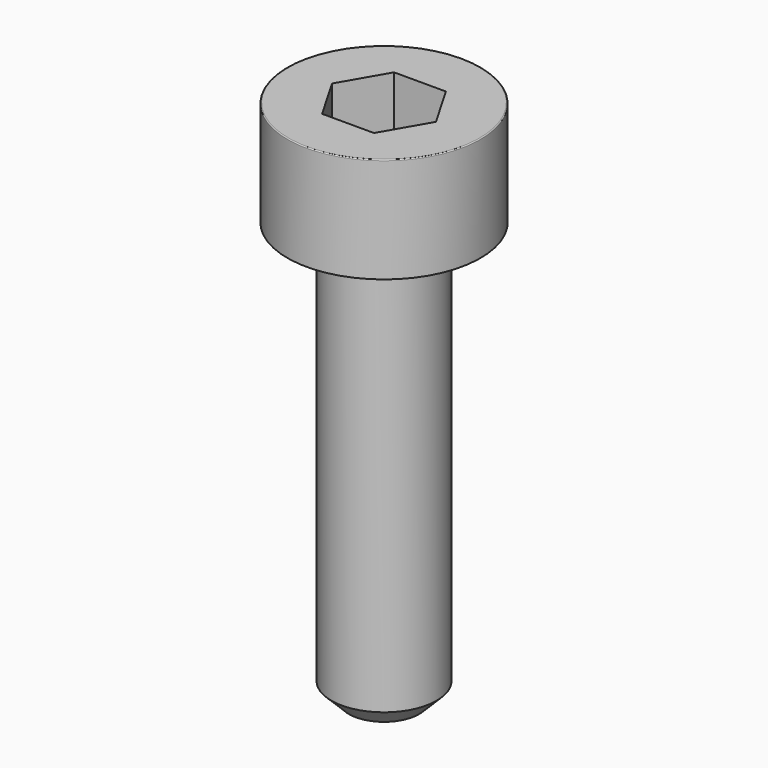
from build123d import *

# Parameters (mm, degrees)
POCKET_DEPTH = 2.56


with BuildPart() as part:
    # Sketch → Revolve (revolve)
    with BuildSketch(Plane.YZ):
        with BuildLine():
            Line((1.499, 0), (2.75, 0))
            Line((2.75, 0), (2.75, 2.97229))
            ThreePointArc((2.75, 2.97229), (2.741884, 2.991884), (2.72229, 3))
            Line((2.72229, 3), (0, 3))
            Line((0, -12), (0, 3))
            Line((1, -12), (0, -12))
            Line((1.5, -11.5), (1, -12))
            Line((1.5, -0.2), (1.5, -11.5))
            Line((1.499, 0), (1.5, -0.2))
        make_face()
    revolve(axis=Axis((0, 0, 0), (0, 0, 1)))

    # Sketch001 → Pocket (cut)
    with BuildSketch(Plane.XY.offset(3)):
        Polygon((1.478017, 0), (0.739008, 1.28), (-0.739008, 1.28), (-1.478017, 0), (-0.739008, -1.28), (0.739008, -1.28), align=None)
    extrude(amount=-POCKET_DEPTH, mode=Mode.SUBTRACT)


solid = part.part
